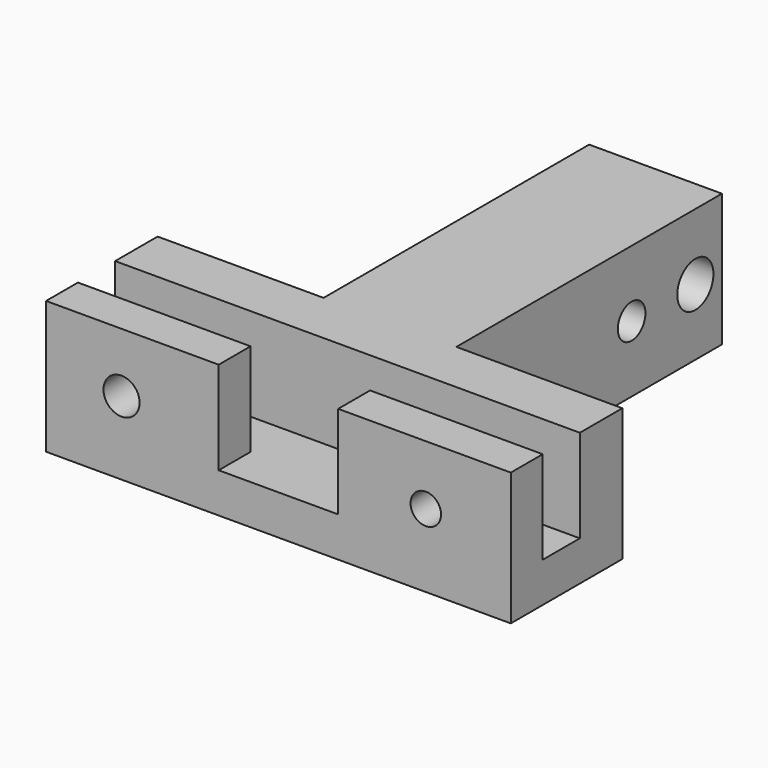
from build123d import *

# Parameters (mm, degrees)
PAD_DEPTH       = 10
SKETCH001_W     = 3
SKETCH001_H     = 8
POCKET_DEPTH    = 22
POCKET001_DEPTH = 5
SKETCH003_R     = 1.7
POCKET002_DEPTH = 5
PAD001_DEPTH    = 35
SKETCH005_W     = 9
SKETCH005_H     = 3
POCKET003_DEPTH = 7
SKETCH009_R     = 1.146705
SKETCH009_R_2   = 1.359748
POCKET005_DEPTH = 10.501
SKETCH010_R     = 1.3
POCKET006_DEPTH = 5


with BuildPart() as part:
    # Sketch → Pad (new body)
    with BuildSketch(Plane.XY):
        Polygon((12.5, 29), (22.5, 29), (22.5, 4), (35, 4), (35, 0), (0, 0), (0, 4), (12.5, 4), align=None)
    extrude(amount=PAD_DEPTH)

    # Sketch001 → Pocket (cut)
    with BuildSketch(Plane(origin=(0, 29, 0), x_dir=(-1, 0, 0), z_dir=(0, 1, 0))):
        with Locations((-17.5, 5)):
            Rectangle(SKETCH001_W, SKETCH001_H)
    extrude(amount=-POCKET_DEPTH, mode=Mode.SUBTRACT)

    # Sketch002 → Pocket001 (cut)
    with BuildSketch(Plane(origin=(12.5, 0, 0), x_dir=(0, -1, 0), z_dir=(-1, 0, 0))):
        with BuildLine():
            ThreePointArc((-29, 1), (-25, 5), (-29, 9))
            Line((-29, 9), (-29, 1))
        make_face()
    extrude(amount=-POCKET001_DEPTH, mode=Mode.SUBTRACT)

    # Sketch003 → Pocket002 (cut)
    with BuildSketch(Plane.YZ.offset(22.5)):
        with Locations((26.5, 5)):
            Circle(SKETCH003_R)
    extrude(amount=-POCKET002_DEPTH, mode=Mode.SUBTRACT)

    # Sketch004 → Pad001 (new body)
    with BuildSketch(Plane(origin=(0, 0, 0), x_dir=(0, -1, 0), z_dir=(-1, 0, 0))):
        Polygon((0, 0), (6.5, 0), (6.5, 10), (3.5, 10), (3.5, 3), (0, 3), align=None)
    extrude(amount=-PAD001_DEPTH)

    # Sketch005 → Pocket003 (cut)
    with BuildSketch(Plane.XY.offset(10)):
        with Locations((17.5, -5)):
            Rectangle(SKETCH005_W, SKETCH005_H)
    extrude(amount=-POCKET003_DEPTH, mode=Mode.SUBTRACT)

    # Sketch009 → Pocket005 (cut, through all)
    with BuildSketch(Plane(origin=(0, 4, 0), x_dir=(-1, 0, 0), z_dir=(0, 1, 0))):
        with Locations((-28.59808, 5.511153)):
            Circle(SKETCH009_R)
        with Locations((-5.681909, 5.536989)):
            Circle(SKETCH009_R_2)
    extrude(amount=-POCKET005_DEPTH, mode=Mode.SUBTRACT)

    # Sketch010 → Pocket006 (cut)
    with BuildSketch(Plane.YZ.offset(22.5)):
        with Locations((20.5, 5)):
            Circle(SKETCH010_R)
    extrude(amount=-POCKET006_DEPTH, mode=Mode.SUBTRACT)


solid = part.part
